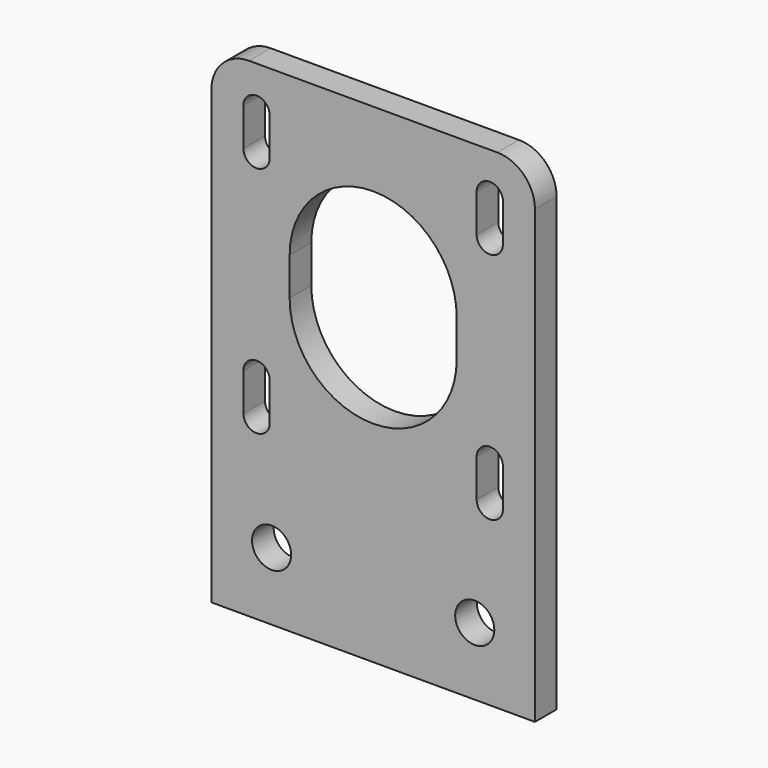
from build123d import *

# Parameters (mm, degrees)
F0_W     = 43
F0_H     = 65
F0_R     = 2.6
F1_DEPTH = 3.6
F2_R     = 5


with BuildPart() as f1:
    # F0 (on Front) → F1 (new body)
    with BuildSketch(Plane.XZ):
        with Locations((0, -5.247028)):
            Rectangle(F0_W, F0_H)
        with Locations((-13.5, -28.747028)):
            Circle(F0_R, mode=Mode.SUBTRACT)
        with BuildLine():
            ThreePointArc((-17.25, -9.247028), (-15.5, -7.497028), (-13.75, -9.247028))
            Line((-13.75, -9.247028), (-13.75, -14.247028))
            ThreePointArc((-13.75, -14.247028), (-15.5, -15.997028), (-17.25, -14.247028))
            Line((-17.25, -14.247028), (-17.25, -9.247028))
        make_face(mode=Mode.SUBTRACT)
        with Locations((13.5, -28.747028)):
            Circle(F0_R, mode=Mode.SUBTRACT)
        with BuildLine():
            ThreePointArc((13.75, -9.247028), (15.5, -7.497028), (17.25, -9.247028))
            Line((17.25, -9.247028), (17.25, -14.247028))
            ThreePointArc((17.25, -14.247028), (15.5, -15.997028), (13.75, -14.247028))
            Line((13.75, -14.247028), (13.75, -9.247028))
        make_face(mode=Mode.SUBTRACT)
        with BuildLine():
            ThreePointArc((-17.25, 21.752972), (-15.5, 23.502972), (-13.75, 21.752972))
            Line((-13.75, 21.752972), (-13.75, 16.752972))
            ThreePointArc((-13.75, 16.752972), (-15.5, 15.002972), (-17.25, 16.752972))
            Line((-17.25, 16.752972), (-17.25, 21.752972))
        make_face(mode=Mode.SUBTRACT)
        with BuildLine():
            ThreePointArc((11.1, 1.252972), (0, -9.847028), (-11.1, 1.252972))
            Line((-11.1, 1.252972), (-11.1, 6.252972))
            ThreePointArc((-11.1, 6.252972), (0, 17.352972), (11.1, 6.252972))
            Line((11.1, 6.252972), (11.1, 1.252972))
        make_face(mode=Mode.SUBTRACT)
        with BuildLine():
            ThreePointArc((13.75, 21.752972), (15.5, 23.502972), (17.25, 21.752972))
            Line((17.25, 21.752972), (17.25, 16.752972))
            ThreePointArc((17.25, 16.752972), (15.5, 15.002972), (13.75, 16.752972))
            Line((13.75, 16.752972), (13.75, 21.752972))
        make_face(mode=Mode.SUBTRACT)
    extrude(amount=F1_DEPTH)

    # F2
    f2_edges = [f1.edges().sort_by_distance(p)[0] for p in [
        (-21.5, -1.8, 27.252972),
        (21.5, -1.8, 27.252972),
    ]]
    fillet(f2_edges, radius=F2_R)


solid = f1.part
